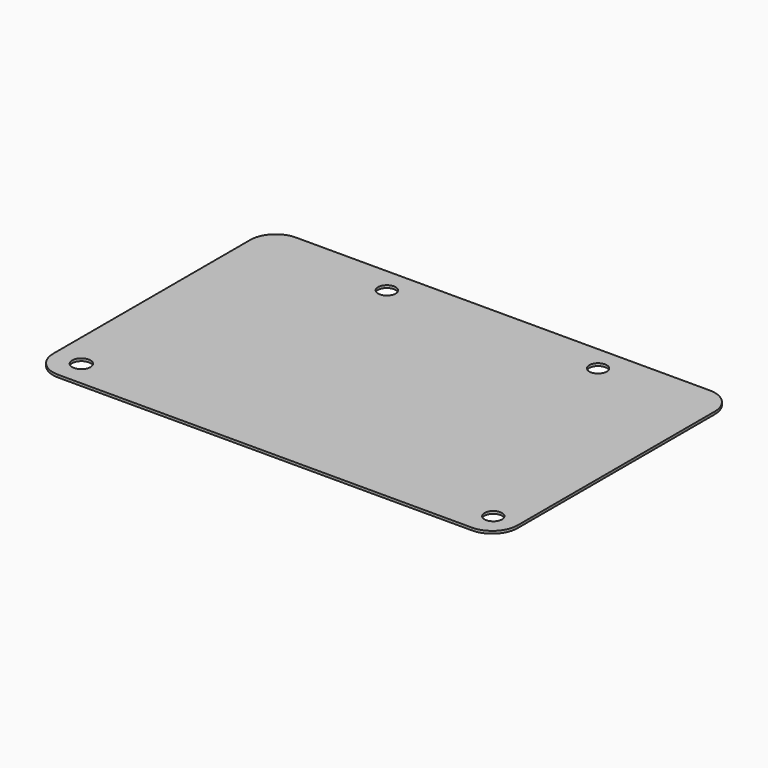
from build123d import *

# Parameters (mm, degrees)
F0_R     = 2.302494
F0_R_2   = 2.194223
F0_R_3   = 2.206516
F1_DEPTH = 0.635


with BuildPart() as f1:
    # F0 (on Top) → F1 (new body)
    with BuildSketch(Plane.XY):
        with BuildLine():
            Line((51.816, 37.211), (-51.816, 37.211))
            ThreePointArc((-51.816, 37.211), (-56.306128, 35.351128), (-58.166, 30.861))
            Line((-58.166, 30.861), (-58.166, -30.861))
            ThreePointArc((-58.166, -30.861), (-56.306128, -35.351128), (-51.816, -37.211))
            Line((-51.816, -37.211), (51.816, -37.211))
            ThreePointArc((51.816, -37.211), (56.306128, -35.351128), (58.166, -30.861))
            Line((58.166, -30.861), (58.166, 30.861))
            ThreePointArc((58.166, 30.861), (56.306128, 35.351128), (51.816, 37.211))
        make_face()
        with Locations((-51.204211, -30.74639)):
            Circle(F0_R, mode=Mode.SUBTRACT)
        with Locations((52.034858, -30.829529)):
            Circle(F0_R_2, mode=Mode.SUBTRACT)
        with Locations((-23.955491, 30.838884)):
            Circle(F0_R_3, mode=Mode.SUBTRACT)
        with Locations((28.920779, 30.851177)):
            Circle(F0_R_2, mode=Mode.SUBTRACT)
    extrude(amount=F1_DEPTH)


solid = f1.part
